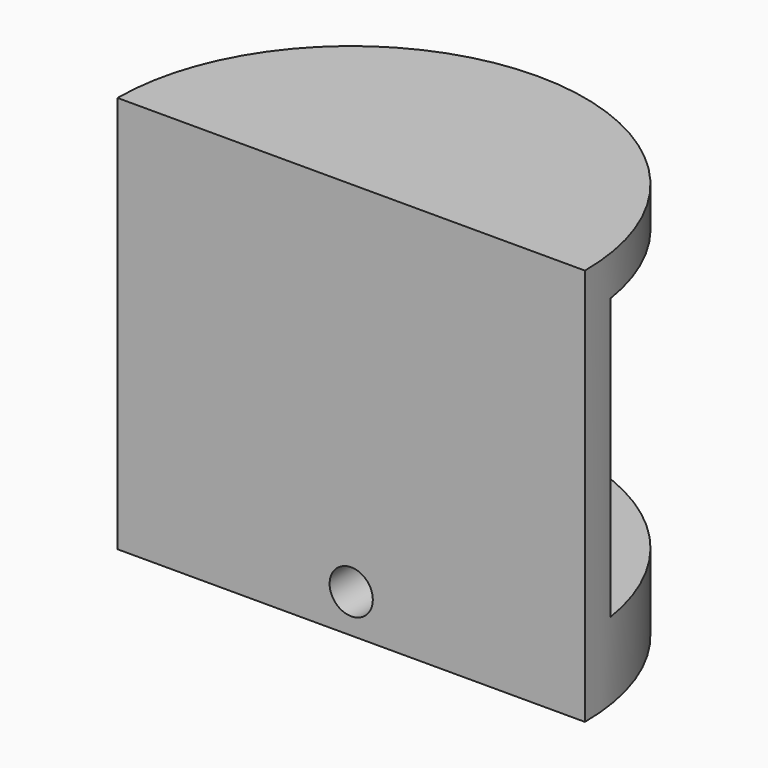
from build123d import *

# Parameters (mm, degrees)
F1_DEPTH = 17
F3_W     = 22
F3_H     = 12
F4_DEPTH = 12
F5_R     = 0.925
F6_DEPTH = 12


with BuildPart() as f1:
    # F0 (on Top) → F1 (new body)
    with BuildSketch(Plane.XY):
        with BuildLine():
            Line((-10, 0), (10, 0))
            ThreePointArc((10, 0), (0, 10), (-10, 0))
        make_face()
    extrude(amount=F1_DEPTH)

    # F3 (on offset) → F4 (cut)
    with BuildSketch(Plane.XY.offset(3.3)):
        with Locations((-0.410548, 7.5)):
            Rectangle(F3_W, F3_H)
    extrude(amount=F4_DEPTH, mode=Mode.SUBTRACT)

    # F5 (on Front) → F6 (cut)
    with BuildSketch(Plane.XZ):
        with Locations((0, 1.65)):
            Circle(F5_R)
    extrude(amount=-F6_DEPTH, mode=Mode.SUBTRACT)


solid = f1.part
